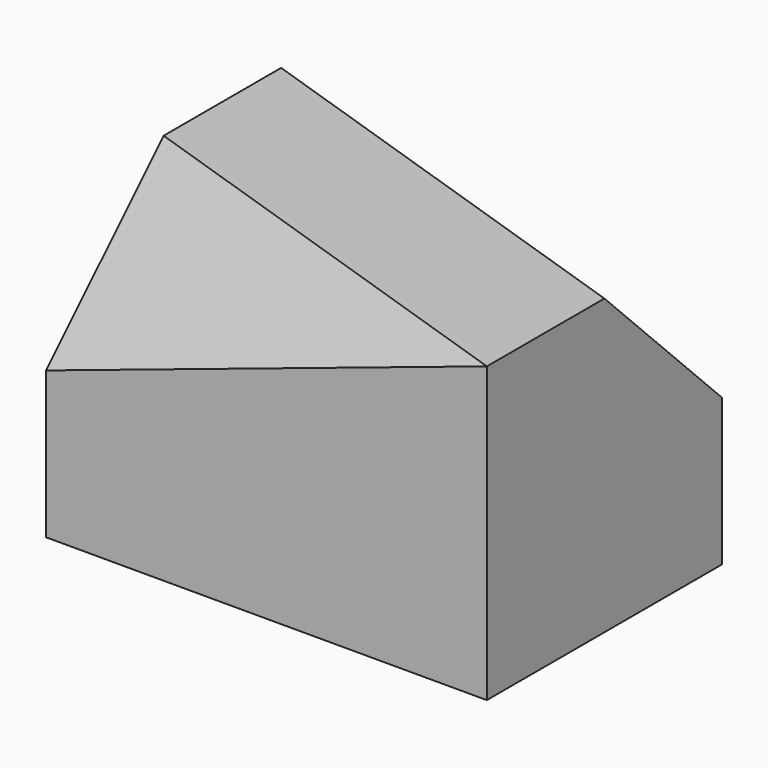
from build123d import *

# Parameters (mm, degrees)
F0_W      = 60
F0_H      = 40
F1_DEPTH  = 40
F6_DEPTH  = 25
F11_DEPTH = 25


with BuildPart() as f1:
    # F0 (on Top) → F1 (new body)
    with BuildSketch(Plane.XY):
        with Locations((30, 20)):
            Rectangle(F0_W, F0_H)
    extrude(amount=F1_DEPTH)

    # F5 (on 3pt) → F6 (cut)
    with BuildSketch(Plane(origin=(-3.1578947368, -9.4736842105, 9.4736842105), x_dir=(0.9733285268, -0.1622214211, 0.1622214211), z_dir=(0.2294157339, 0.6882472016, -0.6882472016))):
        Polygon((3.2444284226, -14.1421356237), (3.2444284226, -42.4264068712), (64.8885684523, -28.2842712475), align=None)
    extrude(amount=-F6_DEPTH, mode=Mode.SUBTRACT)

    # F10 (on 3pt) → F11 (cut)
    with BuildSketch(Plane(origin=(12.6315789474, 37.8947368421, 37.8947368421), x_dir=(0.9733285268, -0.1622214211, -0.1622214211), z_dir=(-0.2294157339, -0.6882472016, -0.6882472016))):
        Polygon((48.6664263392, 14.1421356237), (-12.9777136905, 0), (48.6664263392, -14.1421356237), align=None)
    extrude(amount=-F11_DEPTH, mode=Mode.SUBTRACT)


solid = f1.part
